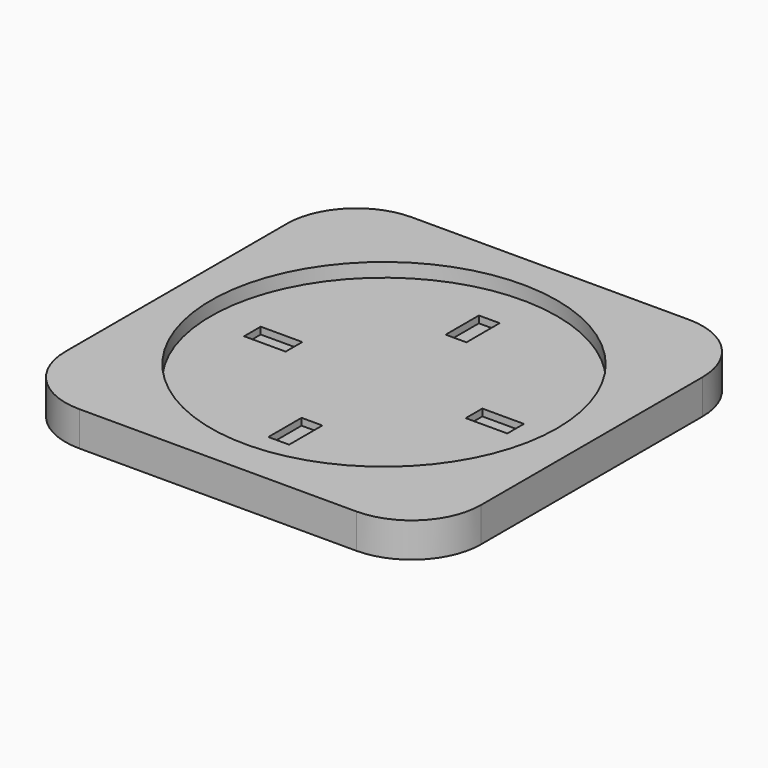
from build123d import *

# Parameters (mm, degrees)
F0_W     = 60
F0_H     = 60
F1_DEPTH = 5
F2_R     = 25
F3_DEPTH = 2
F4_R     = 10
F5_W     = 3
F5_H     = 6
F5_W_2   = 6
F5_H_2   = 3
F6_DEPTH = 1


with BuildPart() as f1:
    # F0 (on Top) → F1 (new body)
    with BuildSketch(Plane.XY):
        Rectangle(F0_W, F0_H)
    extrude(amount=F1_DEPTH)

    # F2 (on face) → F3 (cut)
    with BuildSketch(Plane.XY.offset(5)):
        Circle(F2_R)
    extrude(amount=-F3_DEPTH, mode=Mode.SUBTRACT)

    # F4
    f4_edges = [f1.edges().sort_by_distance(p)[0] for p in [
        (-30, -30, 2.5),
        (30, -30, 2.5),
        (30, 30, 2.5),
        (-30, 30, 2.5),
    ]]
    fillet(f4_edges, radius=F4_R)

    # F5 (on face) → F6 (cut)
    with BuildSketch(Plane.XY.offset(3)):
        with Locations((0, 16)):
            Rectangle(F5_W, F5_H)
        with Locations((-16, 0)):
            Rectangle(F5_W_2, F5_H_2)
        with Locations((0, -16)):
            Rectangle(F5_W, F5_H)
        with Locations((16, 0)):
            Rectangle(F5_W_2, F5_H_2)
    extrude(amount=-F6_DEPTH, mode=Mode.SUBTRACT)


solid = f1.part
